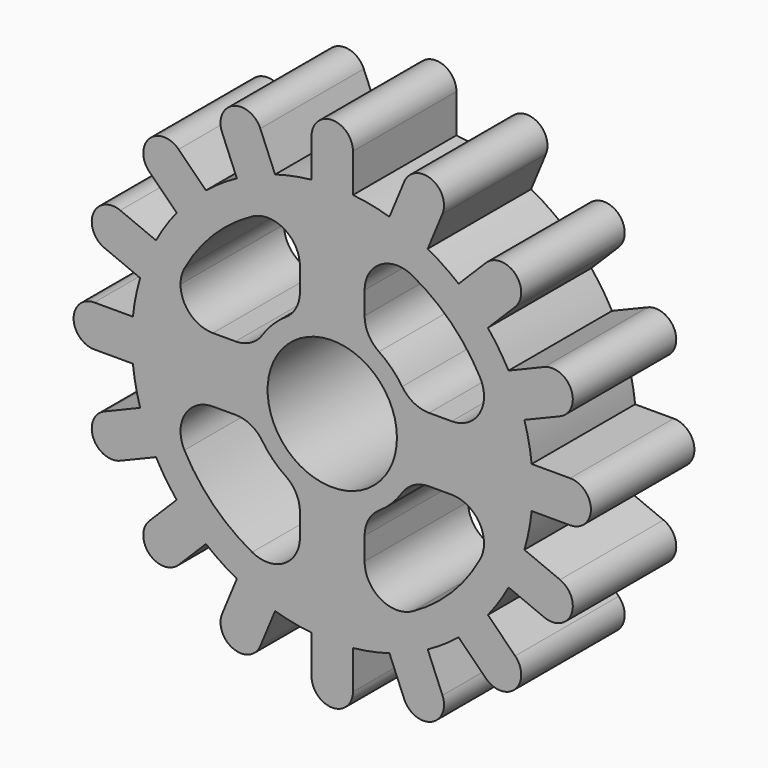
from build123d import *

# Parameters (mm, degrees)
F0_R     = 5
F1_DEPTH = 5
F3_DEPTH = 10


with BuildPart() as f1:
    # F0 (on Front) → F1 (new body, symmetric)
    with BuildSketch(Plane.XZ):
        with BuildLine():
            Line((-8.519582, 16.38709), (-7.378114, 13.63134))
            ThreePointArc((-7.378114, 13.63134), (-8.611339, 12.887779), (-9.770235, 12.032976))
            Line((-9.770235, 12.032976), (-11.879394, 14.142136))
            ThreePointArc((-11.879394, 14.142136), (-14.142136, 14.142136), (-14.142136, 11.879394))
            Line((-14.142136, 11.879394), (-12.032976, 9.770235))
            ThreePointArc((-12.032976, 9.770235), (-12.887779, 8.611339), (-13.63134, 7.378114))
            Line((-13.63134, 7.378114), (-16.38709, 8.519582))
            ThreePointArc((-16.38709, 8.519582), (-18.477591, 7.653669), (-17.611677, 5.563168))
            Line((-17.611677, 5.563168), (-14.855927, 4.421699))
            ThreePointArc((-14.855927, 4.421699), (-15.202172, 3.0239), (-15.417198, 1.6))
            Line((-15.417198, 1.6), (-18.4, 1.6))
            ThreePointArc((-18.4, 1.6), (-20, 0), (-18.4, -1.6))
            Line((-18.4, -1.6), (-15.417198, -1.6))
            ThreePointArc((-15.417198, -1.6), (-15.202172, -3.0239), (-14.855927, -4.421699))
            Line((-14.855927, -4.421699), (-17.611677, -5.563168))
            ThreePointArc((-17.611677, -5.563168), (-18.477591, -7.653669), (-16.38709, -8.519582))
            Line((-16.38709, -8.519582), (-13.63134, -7.378114))
            ThreePointArc((-13.63134, -7.378114), (-12.887779, -8.611339), (-12.032976, -9.770235))
            Line((-12.032976, -9.770235), (-14.142136, -11.879394))
            ThreePointArc((-14.142136, -11.879394), (-14.142136, -14.142136), (-11.879394, -14.142136))
            Line((-11.879394, -14.142136), (-9.770235, -12.032976))
            ThreePointArc((-9.770235, -12.032976), (-8.611339, -12.887779), (-7.378114, -13.63134))
            Line((-7.378114, -13.63134), (-8.519582, -16.38709))
            ThreePointArc((-8.519582, -16.38709), (-7.653669, -18.477591), (-5.563168, -17.611677))
            Line((-5.563168, -17.611677), (-4.421699, -14.855927))
            ThreePointArc((-4.421699, -14.855927), (-3.0239, -15.202172), (-1.6, -15.417198))
            Line((-1.6, -15.417198), (-1.6, -18.4))
            ThreePointArc((-1.6, -18.4), (0, -20), (1.6, -18.4))
            Line((1.6, -18.4), (1.6, -15.417198))
            ThreePointArc((1.6, -15.417198), (3.0239, -15.202172), (4.421699, -14.855927))
            Line((4.421699, -14.855927), (5.563168, -17.611677))
            ThreePointArc((5.563168, -17.611677), (7.653669, -18.477591), (8.519582, -16.38709))
            Line((8.519582, -16.38709), (7.378114, -13.63134))
            ThreePointArc((7.378114, -13.63134), (8.611339, -12.887779), (9.770235, -12.032976))
            Line((9.770235, -12.032976), (11.879394, -14.142136))
            ThreePointArc((11.879394, -14.142136), (14.142136, -14.142136), (14.142136, -11.879394))
            Line((14.142136, -11.879394), (12.032976, -9.770235))
            ThreePointArc((12.032976, -9.770235), (12.887779, -8.611339), (13.63134, -7.378114))
            Line((13.63134, -7.378114), (16.38709, -8.519582))
            ThreePointArc((16.38709, -8.519582), (18.477591, -7.653669), (17.611677, -5.563168))
            Line((17.611677, -5.563168), (14.855927, -4.421699))
            ThreePointArc((14.855927, -4.421699), (15.202172, -3.0239), (15.417198, -1.6))
            Line((15.417198, -1.6), (18.4, -1.6))
            ThreePointArc((18.4, -1.6), (20, 0), (18.4, 1.6))
            Line((18.4, 1.6), (15.417198, 1.6))
            ThreePointArc((15.417198, 1.6), (15.202172, 3.0239), (14.855927, 4.421699))
            Line((14.855927, 4.421699), (17.611677, 5.563168))
            ThreePointArc((17.611677, 5.563168), (18.477591, 7.653669), (16.38709, 8.519582))
            Line((16.38709, 8.519582), (13.63134, 7.378114))
            ThreePointArc((13.63134, 7.378114), (12.887779, 8.611339), (12.032976, 9.770235))
            ThreePointArc((12.032976, 9.770235), (10.960155, 10.960155), (9.770235, 12.032976))
            ThreePointArc((9.770235, 12.032976), (8.611339, 12.887779), (7.378114, 13.63134))
            Line((7.378114, 13.63134), (8.519582, 16.38709))
            ThreePointArc((8.519582, 16.38709), (7.653669, 18.477591), (5.563168, 17.611677))
            Line((5.563168, 17.611677), (4.421699, 14.855927))
            ThreePointArc((4.421699, 14.855927), (3.0239, 15.202172), (1.6, 15.417198))
            Line((1.6, 15.417198), (1.6, 18.4))
            ThreePointArc((1.6, 18.4), (0, 20), (-1.6, 18.4))
            Line((-1.6, 18.4), (-1.6, 15.417198))
            ThreePointArc((-1.6, 15.417198), (-3.0239, 15.202172), (-4.421699, 14.855927))
            Line((-4.421699, 14.855927), (-5.563168, 17.611677))
            ThreePointArc((-5.563168, 17.611677), (-7.653669, 18.477591), (-8.519582, 16.38709))
        make_face()
        Circle(F0_R, mode=Mode.SUBTRACT)
        with BuildLine():
            Line((11.879394, 14.142136), (9.770235, 12.032976))
            ThreePointArc((9.770235, 12.032976), (10.960155, 10.960155), (12.032976, 9.770235))
            Line((12.032976, 9.770235), (14.142136, 11.879394))
            ThreePointArc((14.142136, 11.879394), (14.142136, 14.142136), (11.879394, 14.142136))
        make_face()
    extrude(amount=F1_DEPTH, both=True)

    # F2 (on face) → F3 (cut)
    with BuildSketch(Plane.XZ.offset(5)):
        with BuildLine():
            ThreePointArc((-6.190476, 11.431448), (-9.192388, 9.192388), (-11.431448, 6.190476))
            ThreePointArc((-11.431448, 6.190476), (-11.656508, 5.614049), (-11.733093, 5))
            Line((-11.733093, 5), (-4.153312, 5))
            ThreePointArc((-4.153312, 5), (-3.887479, 5.209367), (-3.611111, 5.404616))
            ThreePointArc((-3.611111, 5.404616), (-2.795207, 6.304803), (-2.5, 7.483315))
            Line((-2.5, 7.483315), (-2.5, 9.233093))
            ThreePointArc((-2.5, 9.233093), (-3.720584, 11.380904), (-6.190476, 11.431448))
        make_face()
        with BuildLine():
            Line((-4.153312, 5), (-11.733093, 5))
            ThreePointArc((-11.733093, 5), (-11.00086, 3.232233), (-9.233093, 2.5))
            Line((-9.233093, 2.5), (-7.483315, 2.5))
            ThreePointArc((-7.483315, 2.5), (-6.304803, 2.795207), (-5.404616, 3.611111))
            ThreePointArc((-5.404616, 3.611111), (-4.829156, 4.350776), (-4.153312, 5))
        make_face()
        with BuildLine():
            ThreePointArc((6.190476, 11.431448), (3.720584, 11.380904), (2.5, 9.233093))
            Line((2.5, 9.233093), (2.5, 7.483315))
            ThreePointArc((2.5, 7.483315), (2.795207, 6.304803), (3.611111, 5.404616))
            ThreePointArc((3.611111, 5.404616), (4.596194, 4.596194), (5.404616, 3.611111))
            ThreePointArc((5.404616, 3.611111), (6.304803, 2.795207), (7.483315, 2.5))
            Line((7.483315, 2.5), (9.233093, 2.5))
            ThreePointArc((9.233093, 2.5), (11.380904, 3.720584), (11.431448, 6.190476))
            ThreePointArc((11.431448, 6.190476), (9.192388, 9.192388), (6.190476, 11.431448))
        make_face()
        with BuildLine():
            Line((-7.483315, -2.5), (-9.233093, -2.5))
            ThreePointArc((-9.233093, -2.5), (-11.380904, -3.720584), (-11.431448, -6.190476))
            ThreePointArc((-11.431448, -6.190476), (-9.192388, -9.192388), (-6.190476, -11.431448))
            ThreePointArc((-6.190476, -11.431448), (-3.720584, -11.380904), (-2.5, -9.233093))
            Line((-2.5, -9.233093), (-2.5, -7.483315))
            ThreePointArc((-2.5, -7.483315), (-2.795207, -6.304803), (-3.611111, -5.404616))
            ThreePointArc((-3.611111, -5.404616), (-4.596194, -4.596194), (-5.404616, -3.611111))
            ThreePointArc((-5.404616, -3.611111), (-6.304803, -2.795207), (-7.483315, -2.5))
        make_face()
        with BuildLine():
            ThreePointArc((5.404616, -3.611111), (4.596194, -4.596194), (3.611111, -5.404616))
            ThreePointArc((3.611111, -5.404616), (2.795207, -6.304803), (2.5, -7.483315))
            Line((2.5, -7.483315), (2.5, -9.233093))
            ThreePointArc((2.5, -9.233093), (3.720584, -11.380904), (6.190476, -11.431448))
            ThreePointArc((6.190476, -11.431448), (9.192388, -9.192388), (11.431448, -6.190476))
            ThreePointArc((11.431448, -6.190476), (11.380904, -3.720584), (9.233093, -2.5))
            Line((9.233093, -2.5), (7.483315, -2.5))
            ThreePointArc((7.483315, -2.5), (6.304803, -2.795207), (5.404616, -3.611111))
        make_face()
    extrude(amount=-F3_DEPTH, mode=Mode.SUBTRACT)


solid = f1.part
